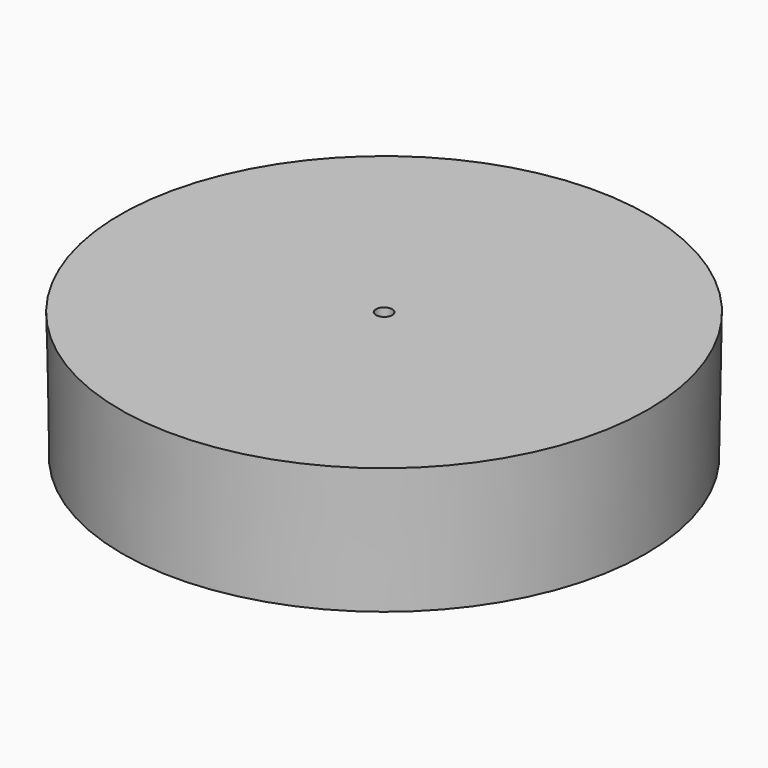
from build123d import *

# Parameters (mm, degrees)
F0_R     = 51.28
F1_DEPTH = 25
F1_TAPER = -1
F2_R     = 1.5875
F3_DEPTH = 25


with BuildPart() as f1:
    # F0 (on Top) → F1 (new body)
    with BuildSketch(Plane.XY):
        Circle(F0_R)
    extrude(amount=F1_DEPTH, taper=F1_TAPER)

    # F2 (on face) → F3 (cut)
    with BuildSketch(Plane.XY.offset(25)):
        Circle(F2_R)
    extrude(amount=-F3_DEPTH, mode=Mode.SUBTRACT)


solid = f1.part
